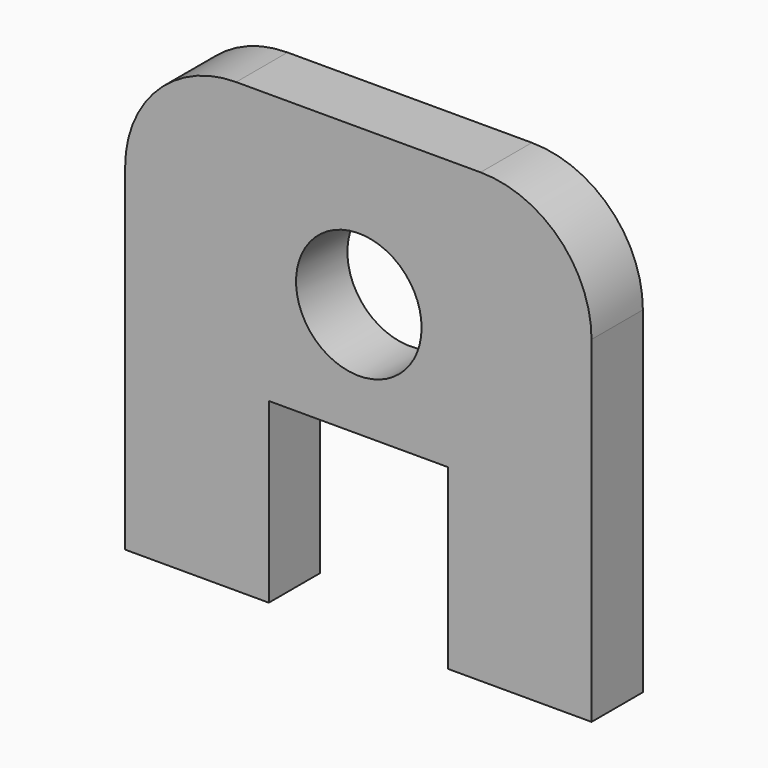
from build123d import *

# Parameters (mm, degrees)
F0_R     = 3.59
F1_DEPTH = 3.67
F3_DEPTH = 3.671
F4_W     = 6.9088
F4_H     = 18.185156
F4_W_2   = 6.909577
F5_DEPTH = 3.671


with BuildPart() as f1:
    # F0 (on Front) → F1 (new body)
    with BuildSketch(Plane.XZ):
        with BuildLine():
            Line((-46.744851, 19.260988), (-46.744851, 10.16))
            Line((-46.744851, 10.16), (-46.744851, 0))
            Line((-46.744851, 0), (-38.524851, 0))
            Line((-38.524851, 0), (-38.524851, 10.16))
            Line((-38.524851, 10.16), (-28.284851, 10.16))
            Line((-28.284851, 10.16), (-28.284851, 0))
            Line((-28.284851, 0), (-20.064851, 0))
            Line((-20.064851, 0), (-20.064851, 10.16))
            Line((-20.064851, 10.16), (-20.064851, 19.260988))
            ThreePointArc((-20.064851, 19.260988), (-21.924723, 23.751116), (-26.414851, 25.610988))
            Line((-26.414851, 25.610988), (-40.394851, 25.610988))
            ThreePointArc((-40.394851, 25.610988), (-44.884979, 23.751116), (-46.744851, 19.260988))
        make_face()
        with Locations((-33.377483, 16.686028)):
            Circle(F0_R, mode=Mode.SUBTRACT)
    extrude(amount=F1_DEPTH)

    # F2 (on face) → F3 (cut, through all)
    with BuildSketch(Plane.XZ.offset(3.67)):
        with BuildLine():
            ThreePointArc((-53.653651, 34.695156), (-51.793779, 30.205028), (-47.303651, 28.345156))
            Line((-47.303651, 28.345156), (-4.503874, 28.345156))
            Line((-4.503874, 28.345156), (-4.503874, 41.061975))
            Line((-4.503874, 41.061975), (-53.653651, 41.061975))
            Line((-53.653651, 41.061975), (-53.653651, 34.695156))
        make_face()
    extrude(amount=-F3_DEPTH, mode=Mode.SUBTRACT)

    # F4 (on face) → F5 (cut, through all)
    with BuildSketch(Plane.XZ.offset(3.67)):
        with Locations((-50.199251, 9.092578)):
            Rectangle(F4_W, F4_H)
        with Locations((-16.610062, 9.092578)):
            Rectangle(F4_W_2, F4_H)
    extrude(amount=-F5_DEPTH, mode=Mode.SUBTRACT)


solid = f1.part
